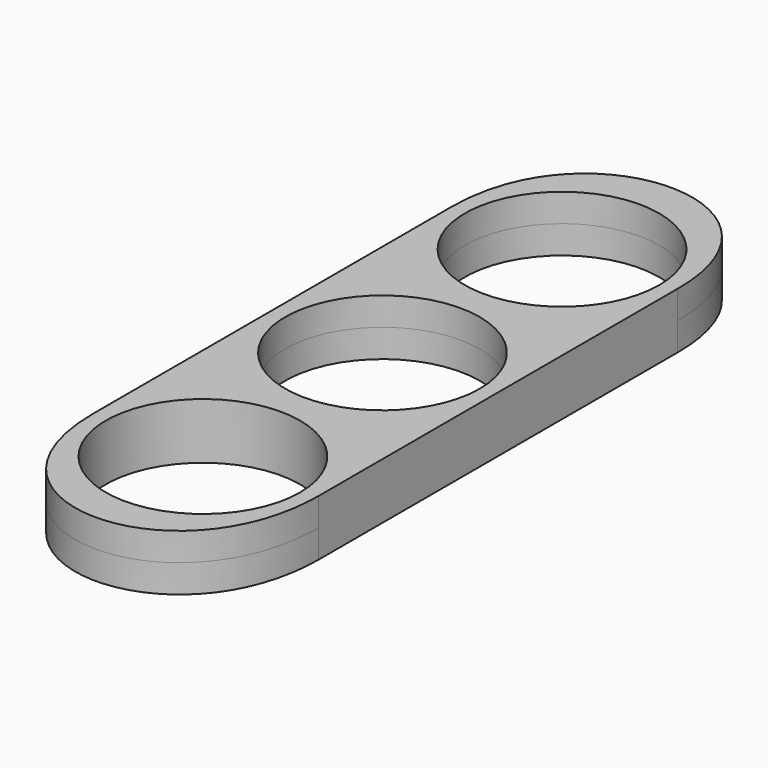
from build123d import *

# Parameters (mm, degrees)
F2_DEPTH = 3.175
F0_R     = 11
F3_DEPTH = 3.175


with BuildPart() as f2:
    # F1 (on Top) → F2 (new body, symmetric)
    with BuildSketch(Plane.XY):
        with BuildLine():
            add(Edge.make_bspline(
                [(-12.7, 25.851185), (-12.482763, 45.569602), (12.783552, 45.569602), (12.7, 25.8572)],
                knots=[0, 0, 0, 0, 25.400001, 25.400001, 25.400001, 25.400001], degree=3))
            Line((-12.7, 25.851185), (-12.7, -24.948815))
            add(Edge.make_bspline(
                [(-12.7, -24.948815), (-12.783552, -45.5676), (12.482763, -45.5676), (12.7, -24.9428)],
                knots=[0, 0, 0, 0, 25.400001, 25.400001, 25.400001, 25.400001], degree=3))
            Line((12.7, -24.9428), (12.7, 25.8572))
        make_face()
    extrude(amount=F2_DEPTH, both=True)

    # F0 (on Top) → F3 (cut, symmetric)
    with BuildSketch(Plane.XY):
        Circle(F0_R)
        with Locations((0, 25.4)):
            Circle(F0_R)
        with Locations((0, -25.4)):
            Circle(F0_R)
    extrude(amount=F3_DEPTH, both=True, mode=Mode.SUBTRACT)


solid = f2.part
